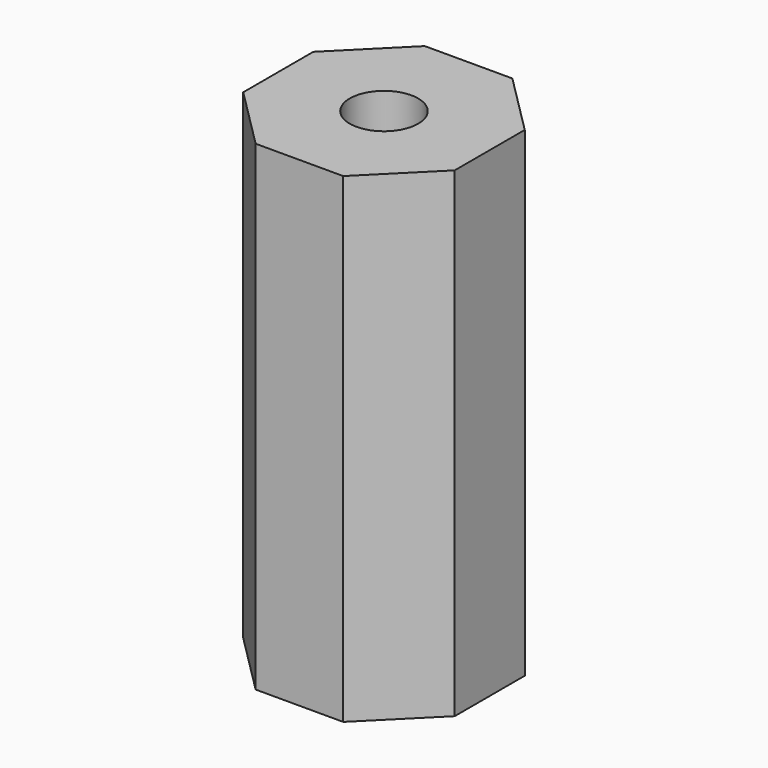
from build123d import *

# Parameters (mm, degrees)
F1_DEPTH = 15.875
F2_R     = 1.1303
F3_DEPTH = 15.876


with BuildPart() as f1:
    # F0 (on Top) → F1 (new body)
    with BuildSketch(Plane.XY):
        Polygon((3.4925, 1.446641), (1.446641, 3.4925), (-1.446641, 3.4925), (-3.4925, 1.446641), (-3.4925, -1.446641), (-1.446641, -3.4925), (1.446641, -3.4925), (3.4925, -1.446641), align=None)
    extrude(amount=F1_DEPTH)

    # F2 (on Top) → F3 (cut, through all)
    with BuildSketch(Plane.XY):
        Circle(F2_R)
    extrude(amount=F3_DEPTH, mode=Mode.SUBTRACT)


solid = f1.part
